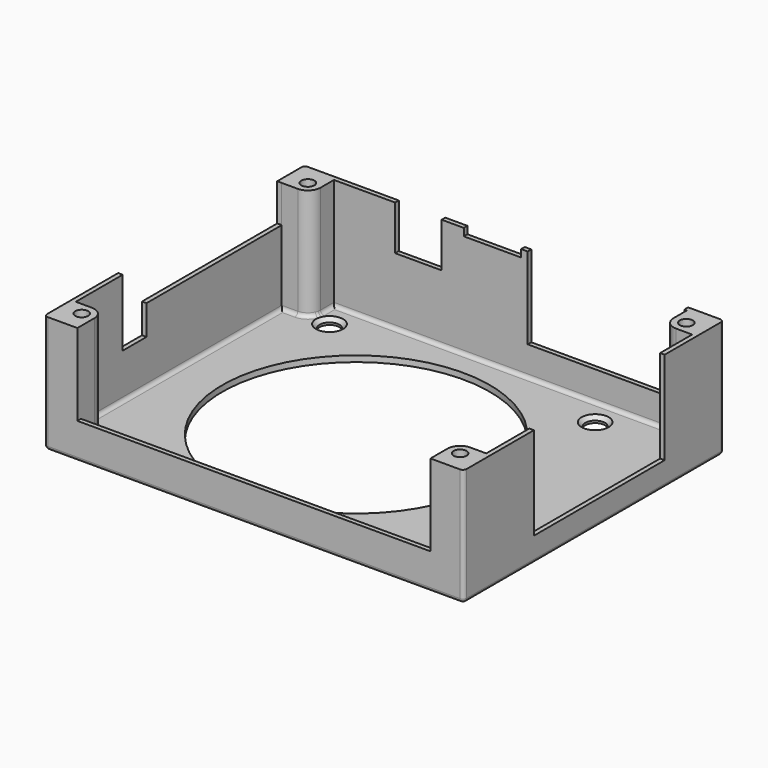
from build123d import *

# Parameters (mm, degrees)
SKETCH006_W     = 112.91
SKETCH006_H     = 87.54
SKETCH006_R     = 3
SKETCH006_R_2   = 2.65
SKETCH006_R_3   = 36
PAD005_DEPTH    = 1.6
CHAMFER_SIZE    = 1
SKETCH007_W     = 112.91
SKETCH007_H     = 87.54
SKETCH007_R     = 3
PAD006_DEPTH    = 1.8
SKETCH009_W     = 112.91
SKETCH009_H     = 87.54
SKETCH009_R     = 1.75
PAD007_DEPTH    = 28.2
SKETCH008_W     = 44
SKETCH008_H     = 25
POCKET_DEPTH    = 1.22
POCKET001_DEPTH = 1.22
SKETCH011_W     = 95.03
SKETCH011_H     = 22
POCKET002_DEPTH = 1.22
SKETCH012_W     = 42.2
SKETCH012_H     = 22
SKETCH012_W_2   = 15.44
SKETCH012_H_2   = 2
SKETCH012_W_3   = 12.5
SKETCH012_H_3   = 12
POCKET003_DEPTH = 1.22
FILLET001_R     = 1


with BuildPart() as part:
    # Sketch006 → Pad005 (new body)
    with BuildSketch(Plane.XY):
        Rectangle(SKETCH006_W, SKETCH006_H)
        with Locations((-50.925, 38.05)):
            Circle(SKETCH006_R, mode=Mode.SUBTRACT)
        with Locations((50.925, 38.05)):
            Circle(SKETCH006_R, mode=Mode.SUBTRACT)
        with Locations((-50.925, -38.05)):
            Circle(SKETCH006_R, mode=Mode.SUBTRACT)
        with Locations((50.925, -38.05)):
            Circle(SKETCH006_R, mode=Mode.SUBTRACT)
        with Locations((-43.265, 35.75)):
            Circle(SKETCH006_R_2, mode=Mode.SUBTRACT)
        with Locations((28.235, 35.75)):
            Circle(SKETCH006_R_2, mode=Mode.SUBTRACT)
        with Locations((28.235, -35.75)):
            Circle(SKETCH006_R_2, mode=Mode.SUBTRACT)
        with Locations((-43.265, -35.75)):
            Circle(SKETCH006_R_2, mode=Mode.SUBTRACT)
        with Locations((-7.515, 0)):
            Circle(SKETCH006_R_3, mode=Mode.SUBTRACT)
    extrude(amount=PAD005_DEPTH)

    # Chamfer
    chamfer_edges = [part.edges().sort_by_distance(p)[0] for p in [
        (-45.915, 35.75, 1.6),
        (25.585, 35.75, 1.6),
        (-45.915, -35.75, 1.6),
        (25.585, -35.75, 1.6),
    ]]
    chamfer(chamfer_edges, length=CHAMFER_SIZE)

    # Sketch007 → Pad006 (join)
    with BuildSketch(Plane.XY.offset(1.6)):
        Rectangle(SKETCH007_W, SKETCH007_H)
        with Locations((-50.925, 38.05)):
            Circle(SKETCH007_R, mode=Mode.SUBTRACT)
        with Locations((50.925, 38.05)):
            Circle(SKETCH007_R, mode=Mode.SUBTRACT)
        with Locations((-50.925, -38.05)):
            Circle(SKETCH007_R, mode=Mode.SUBTRACT)
        with Locations((50.925, -38.05)):
            Circle(SKETCH007_R, mode=Mode.SUBTRACT)
        with BuildLine():
            Line((-47.515, 42.55), (47.515, 42.55))
            Line((47.515, 42.55), (47.515, 38.05))
            ThreePointArc((47.515, 38.05), (48.513766, 35.638766), (50.925, 34.64))
            Line((55.235, 34.64), (50.925, 34.64))
            Line((55.235, -34.64), (55.235, 34.64))
            Line((55.235, -34.64), (50.925, -34.64))
            ThreePointArc((50.925, -34.64), (48.513766, -35.638766), (47.515, -38.05))
            Line((47.515, -42.55), (47.515, -38.05))
            Line((-47.515, -42.55), (47.515, -42.55))
            Line((-47.515, -42.55), (-47.515, -38.05))
            ThreePointArc((-47.515, -38.05), (-48.513766, -35.638766), (-50.925, -34.64))
            Line((-55.235, -34.64), (-50.925, -34.64))
            Line((-55.235, 34.64), (-55.235, -34.64))
            Line((-55.235, 34.64), (-50.925, 34.64))
            ThreePointArc((-50.925, 34.64), (-48.513766, 35.638766), (-47.515, 38.05))
            Line((-47.515, 42.55), (-47.515, 38.05))
        make_face(mode=Mode.SUBTRACT)
    extrude(amount=PAD006_DEPTH)

    # Sketch009 → Pad007 (join)
    with BuildSketch(Plane.XY.offset(3.4)):
        Rectangle(SKETCH009_W, SKETCH009_H)
        with Locations((-50.925, 38.05)):
            Circle(SKETCH009_R, mode=Mode.SUBTRACT)
        with Locations((50.925, 38.05)):
            Circle(SKETCH009_R, mode=Mode.SUBTRACT)
        with Locations((-50.925, -38.05)):
            Circle(SKETCH009_R, mode=Mode.SUBTRACT)
        with Locations((50.925, -38.05)):
            Circle(SKETCH009_R, mode=Mode.SUBTRACT)
        with BuildLine():
            Line((-47.515, 42.55), (47.515, 42.55))
            Line((47.515, 42.55), (47.515, 38.05))
            ThreePointArc((47.515, 38.05), (48.513766, 35.638766), (50.925, 34.64))
            Line((55.235, 34.64), (50.925, 34.64))
            Line((55.235, -34.64), (55.235, 34.64))
            Line((55.235, -34.64), (50.925, -34.64))
            ThreePointArc((50.925, -34.64), (48.513766, -35.638766), (47.515, -38.05))
            Line((47.515, -42.55), (47.515, -38.05))
            Line((-47.515, -42.55), (47.515, -42.55))
            Line((-47.515, -42.55), (-47.515, -38.05))
            ThreePointArc((-47.515, -38.05), (-48.513766, -35.638766), (-50.925, -34.64))
            Line((-55.235, -34.64), (-50.925, -34.64))
            Line((-55.235, 34.64), (-55.235, -34.64))
            Line((-55.235, 34.64), (-50.925, 34.64))
            ThreePointArc((-50.925, 34.64), (-48.513766, 35.638766), (-47.515, 38.05))
            Line((-47.515, 42.55), (-47.515, 38.05))
        make_face(mode=Mode.SUBTRACT)
    extrude(amount=PAD007_DEPTH)

    # Sketch008 → Pocket (cut)
    with BuildSketch(Plane(origin=(56.455, 0, 1.6), x_dir=(0, 1, 0), z_dir=(1, 0, 0))):
        with Locations((1.85, 17.5)):
            Rectangle(SKETCH008_W, SKETCH008_H)
    extrude(amount=-POCKET_DEPTH, mode=Mode.SUBTRACT)

    # Sketch010 → Pocket001 (cut)
    with BuildSketch(Plane(origin=(-56.455, 0, 1.6), x_dir=(0, -1, 0), z_dir=(-1, 0, 0))):
        Polygon((-34.65, 30), (18.85, 30), (18.85, 12), (10.85, 12), (10.85, 20), (-34.65, 20), align=None)
    extrude(amount=-POCKET001_DEPTH, mode=Mode.SUBTRACT)

    # Sketch011 → Pocket002 (cut)
    with BuildSketch(Plane(origin=(0, -43.77, 1.6), x_dir=(1, 0, 0), z_dir=(0, -1, 0))):
        with Locations((0, 19)):
            Rectangle(SKETCH011_W, SKETCH011_H)
    extrude(amount=-POCKET002_DEPTH, mode=Mode.SUBTRACT)

    # Sketch012 → Pocket003 (cut)
    with BuildSketch(Plane(origin=(0, 43.77, 1.6), x_dir=(-1, 0, 0), z_dir=(0, 1, 0))):
        with Locations((-25.735, 19)):
            Rectangle(SKETCH012_W, SKETCH012_H)
        with Locations((4.855, 29)):
            Rectangle(SKETCH012_W_2, SKETCH012_H_2)
        with Locations((24.785, 24)):
            Rectangle(SKETCH012_W_3, SKETCH012_H_3)
    extrude(amount=-POCKET003_DEPTH, mode=Mode.SUBTRACT)

    # Fillet001
    fillet001_edges = [part.edges().sort_by_distance(p)[0] for p in [
        (56.455, -43.77, 15.8),
        (56.455, 0, 0),
        (0, -43.77, 0),
        (56.455, 43.77, 15.8),
        (0, 43.77, 0),
        (-56.455, 0, 0),
        (-56.455, -43.77, 15.8),
        (-56.455, 43.77, 15.8),
        (-48.513766, -35.638766, 1.6),
        (-55.235, 0, 1.6),
        (0, -42.55, 1.6),
        (-48.513766, 35.638766, 1.6),
        (48.513766, -35.638766, 1.6),
        (0, 42.55, 1.6),
        (48.513766, 35.638766, 1.6),
        (55.235, 0, 1.6),
    ]]
    fillet(fillet001_edges, radius=FILLET001_R)


solid = part.part
